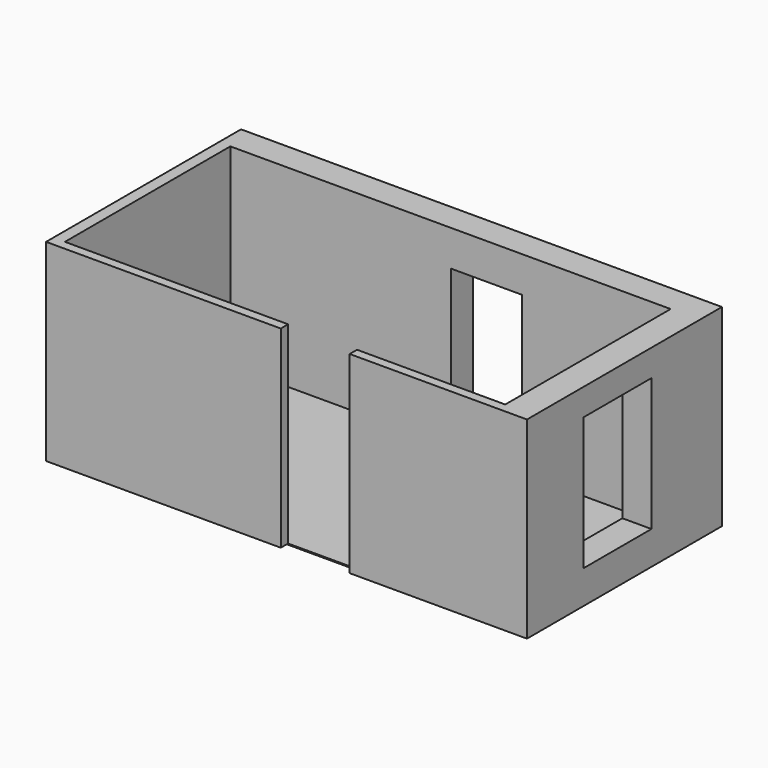
from build123d import *

# Parameters (mm, degrees)
F1_DEPTH = 2520
F0_W     = 380
F0_H     = 1112
F2_DEPTH = 435
F3_W     = 380
F3_H     = 1112
F4_DEPTH = 350
F5_W     = 930
F5_H     = 362
F6_DEPTH = 468
F8_DEPTH = 15


with BuildPart() as f1:
    # F0 (on Top) → F1 (new body)
    with BuildSketch(Plane.XY):
        Polygon((40, -1470), (40, -1350), (-2875, -1350), (-2875, 1350), (7, 1350), (7, 1712), (-3025, 1712), (-3025, -1470), align=None)
        Polygon((2875, 1350), (2875, 562), (3255, 562), (3255, 1712), (937, 1712), (937, 1350), align=None)
        Polygon((2875, -550), (2875, -1350), (940, -1350), (940, -1470), (3255, -1470), (3255, -550), align=None)
    extrude(amount=F1_DEPTH)

    # F0 (on Top) → F2 (join)
    with BuildSketch(Plane.XY):
        with Locations((3065, 6)):
            Rectangle(F0_W, F0_H)
    extrude(amount=F2_DEPTH)

    # F3 (on face) → F4 (join)
    with BuildSketch(Plane.XY.offset(2520)):
        with Locations((3065, 6)):
            Rectangle(F3_W, F3_H)
    extrude(amount=-F4_DEPTH)

    # F5 (on face) → F6 (join)
    with BuildSketch(Plane.XY.offset(2520)):
        with Locations((472, 1531)):
            Rectangle(F5_W, F5_H)
    extrude(amount=-F6_DEPTH)


with BuildPart() as f8:
    # F7 (on face) → F8 (new body)
    with BuildSketch(Plane(origin=(0, 0, 0), x_dir=(1, 0, 0), z_dir=(0, 0, -1))):
        Polygon((40, 1350), (-2875, 1350), (-2875, -1350), (7, -1350), (2875, -1350), (2875, 1350), align=None)
    extrude(amount=F8_DEPTH)


solid = Compound([f1.part, f8.part])
